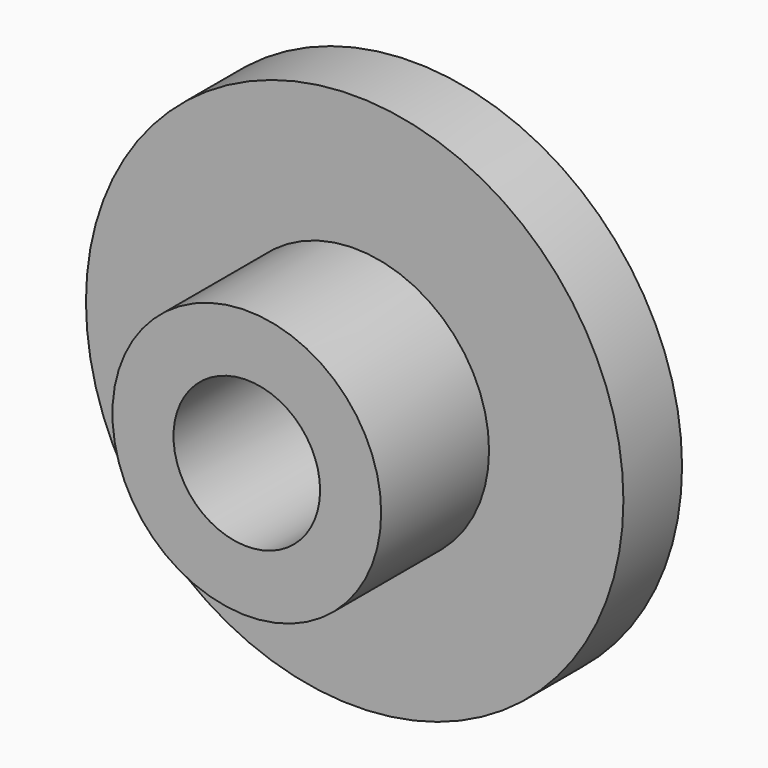
from build123d import *

# Parameters (mm, degrees)
F2_R     = 6.35
F3_DEPTH = 25.4


with BuildPart() as f1:
    # F0 (on Top) → F1 (revolve)
    with BuildSketch(Plane.XY):
        Polygon((69.85, 0), (19.05, 0), (19.05, -54.102), (34.925, -54.102), (34.925, -19.05), (69.85, -19.05), align=None)
    revolve(axis=Axis((0, -31.8067, 0), (0, -1, 0)))

    # F2 (on Front) → F3 (cut)
    with BuildSketch(Plane.XZ):
        with Locations((53.975, 0)):
            Circle(F2_R)
    extrude(amount=-F3_DEPTH, mode=Mode.SUBTRACT)


solid = f1.part
